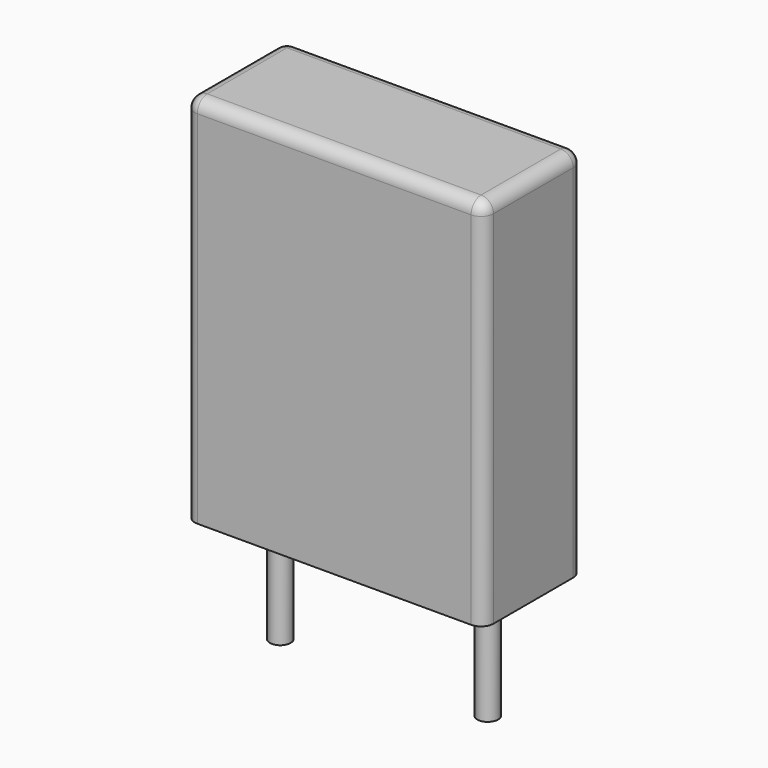
from build123d import *

# Parameters (mm, degrees)
SKETCH_W     = 7.2
SKETCH_H     = 3
PAD_DEPTH    = 9
FILLET_R     = 0.3
SKETCH001_R  = 0.25
PAD001_DEPTH = 3.2


with BuildPart() as fillet_body:
    # Sketch → Pad (new body)
    with BuildSketch(Plane.XY.offset(0.1)):
        with Locations((2.5, 0)):
            Rectangle(SKETCH_W, SKETCH_H)
    extrude(amount=PAD_DEPTH)

    # Fillet
    fillet_edges = [fillet_body.edges().sort_by_distance(p)[0] for p in [
        (-1.1, 0, 9.1),
        (-1.1, -1.5, 4.6),
        (2.5, -1.5, 9.1),
        (6.1, -1.5, 4.6),
        (6.1, 0, 9.1),
        (6.1, 1.5, 4.6),
        (2.5, 1.5, 9.1),
        (-1.1, 1.5, 4.6),
    ]]
    fillet(fillet_edges, radius=FILLET_R)


with BuildPart() as pad001:
    # Sketch001 → Pad001 (new body)
    with BuildSketch(Plane.XY.offset(0.5)):
        Circle(SKETCH001_R)
        with Locations((5, 0)):
            Circle(SKETCH001_R)
    extrude(amount=-PAD001_DEPTH)


solid = Compound([fillet_body.part, pad001.part])
